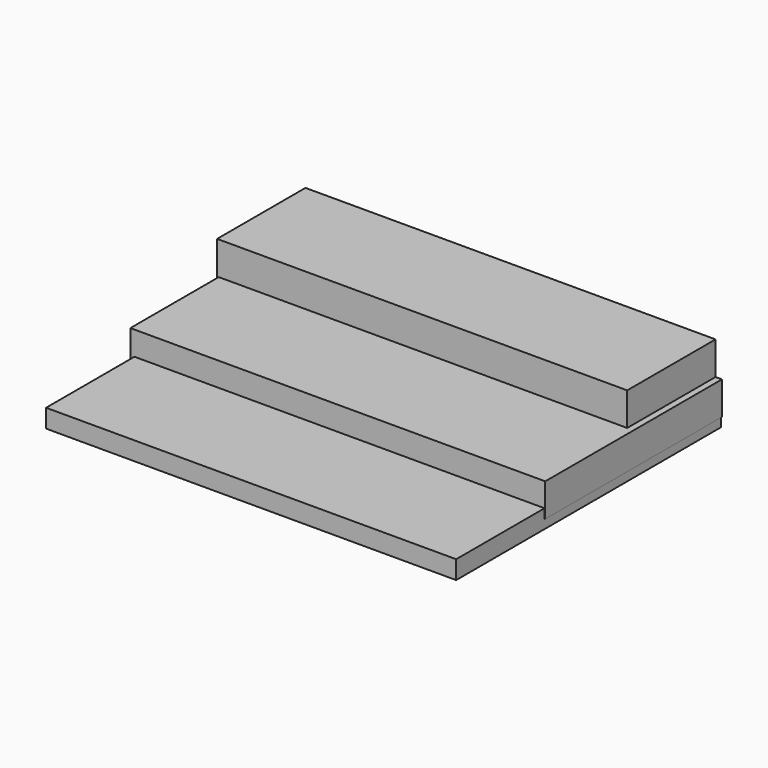
from build123d import *

# Parameters (mm, degrees)
F0_W     = 37.13936
F0_H     = 1.666666
F1_DEPTH = 30
F2_W     = 37.571562
F2_H     = 20
F3_DEPTH = 3
F4_W     = 37.139
F4_H     = 10
F5_DEPTH = 6


with BuildPart() as f1:
    # F0 (on Front) → F1 (new body)
    with BuildSketch(Plane.XZ):
        with Locations((2.85544, 0)):
            Rectangle(F0_W, F0_H)
    extrude(amount=F1_DEPTH)

    # F2 (on Top) → F3 (join)
    with BuildSketch(Plane.XY):
        with Locations((2.705152, -10)):
            Rectangle(F2_W, F2_H)
    extrude(amount=F3_DEPTH)

    # F4 (on Top) → F5 (join)
    with BuildSketch(Plane.XY):
        with Locations((2.344745, -5)):
            Rectangle(F4_W, F4_H)
    extrude(amount=F5_DEPTH)


solid = f1.part
